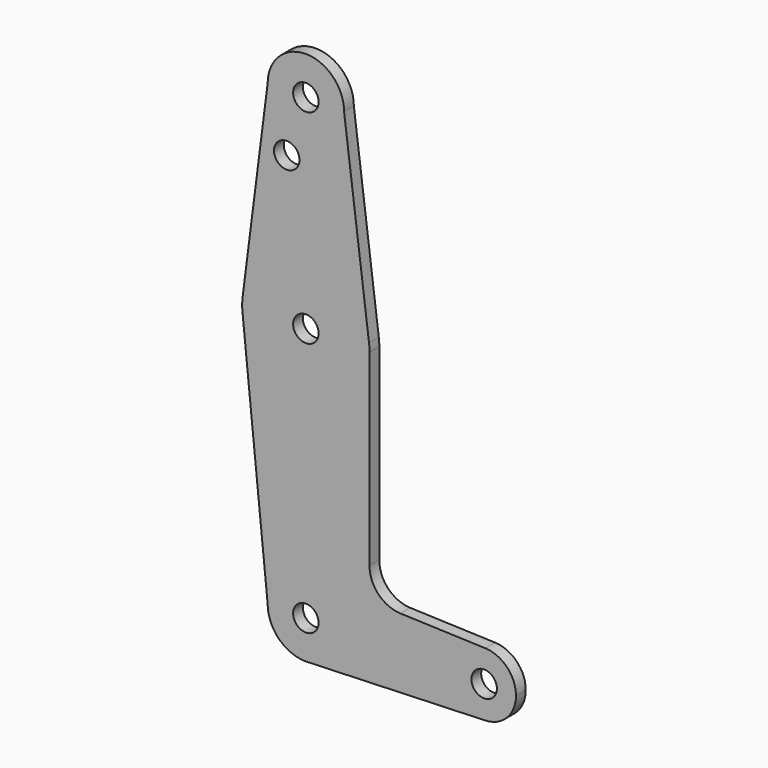
from build123d import *

# Parameters (mm, degrees)
F0_R     = 3.175
F1_DEPTH = 3.048


with BuildPart() as f1:
    # F0 (on Front) → F1 (new body)
    with BuildSketch(Plane.XZ):
        with BuildLine():
            Line((15.747457, 65.508289), (9.525, 114.3))
            ThreePointArc((9.525, 114.3), (0, 104.775), (-9.525, 114.3))
            Line((-9.525, 114.3), (-15.747457, 65.508289))
            ThreePointArc((-15.747457, 65.508289), (0, 79.375), (15.747457, 65.508289))
        make_face()
        with Locations((-4.7625, 100.0252)):
            Circle(F0_R, mode=Mode.SUBTRACT)
        with BuildLine():
            ThreePointArc((15.875, 63.5), (15.843082, 64.506168), (15.747457, 65.508289))
            ThreePointArc((15.747457, 65.508289), (0, 79.375), (-15.747457, 65.508289))
            ThreePointArc((-15.747457, 65.508289), (-15.875, 63.5), (-15.747457, 61.491711))
            ThreePointArc((-15.747457, 61.491711), (1.006168, 47.656918), (15.875, 63.5))
        make_face()
        with Locations((0, 63.5)):
            Circle(F0_R, mode=Mode.SUBTRACT)
        with BuildLine():
            ThreePointArc((-9.525, 114.3), (0, 104.775), (9.525, 114.3))
            ThreePointArc((9.525, 114.3), (0, 123.825), (-9.525, 114.3))
        make_face()
        with Locations((0, 114.3)):
            Circle(F0_R, mode=Mode.SUBTRACT)
        with BuildLine():
            Line((15.875, 16.632032), (15.875, 63.5))
            ThreePointArc((15.875, 63.5), (1.006168, 47.656918), (-15.747457, 61.491711))
            Line((-15.747457, 61.491711), (-9.525, 0))
            ThreePointArc((-9.525, 0), (0, 9.525), (9.525, 0))
            ThreePointArc((9.525, 0), (6.970557, -6.491299), (0.677344, -9.500886))
            Line((0.677344, -9.500886), (44.732405, -7.932475))
            ThreePointArc((44.732405, -7.932475), (36.5125, 0), (44.732405, 7.932475))
            Line((44.732405, 7.932475), (23.542343, 8.686865))
            ThreePointArc((23.542343, 8.686865), (18.104429, 11.111302), (15.875, 16.632032))
        make_face()
        with BuildLine():
            ThreePointArc((9.525, 0), (0, 9.525), (-9.525, 0))
            ThreePointArc((-9.525, 0), (-6.735192, -6.735192), (0, -9.525))
            Line((0, -9.525), (0.677344, -9.500886))
            ThreePointArc((0.677344, -9.500886), (6.970557, -6.491299), (9.525, 0))
        make_face()
        Circle(F0_R, mode=Mode.SUBTRACT)
        with BuildLine():
            ThreePointArc((52.3875, 0), (50.161633, 5.51191), (44.732405, 7.932475))
            ThreePointArc((44.732405, 7.932475), (36.5125, 0), (44.732405, -7.932475))
            ThreePointArc((44.732405, -7.932475), (50.161633, -5.51191), (52.3875, 0))
        make_face()
        with Locations((44.45, 0)):
            Circle(F0_R, mode=Mode.SUBTRACT)
    extrude(amount=F1_DEPTH)


solid = f1.part
